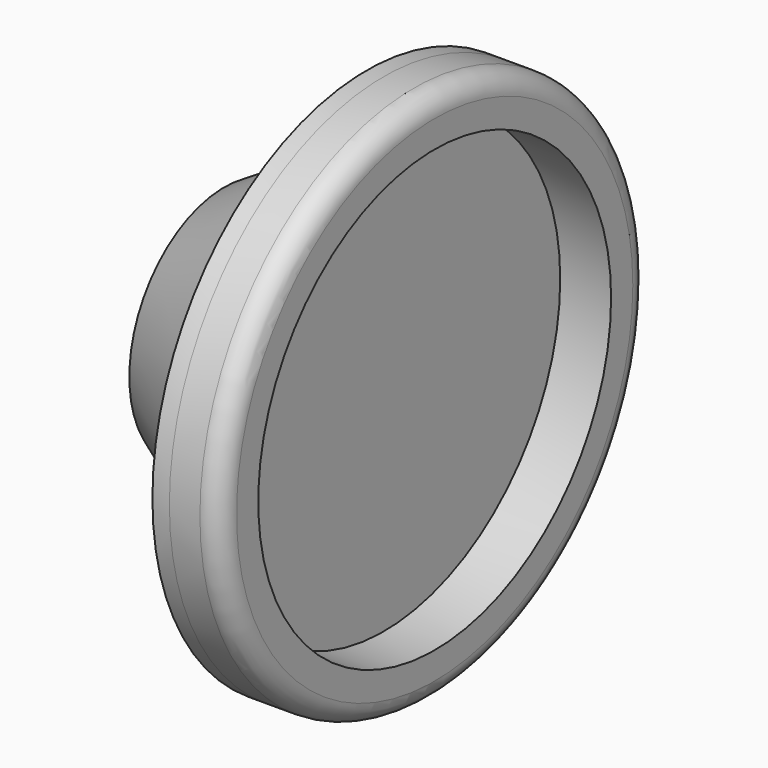
from build123d import *

# Parameters (mm, degrees)
F0_R      = 65
F1_DEPTH  = 5
F2_R      = 57.5
F3_DEPTH  = 5
F3_FACE_R = 57.5
F5_R      = 35
F7_R      = 79
F7_R_2    = 65
F8_DEPTH  = 5
F9_DEPTH  = 15
F10_R     = 6


with BuildPart() as f1:
    # F0 (on Right) → F1 (new body)
    with BuildSketch(Plane.YZ):
        Circle(F0_R)
    extrude(amount=F1_DEPTH)

    # F2 (on Right) → F3 (join)
    with BuildSketch(Plane.YZ):
        Circle(F2_R)
    extrude(amount=-F3_DEPTH)

    # F3_face (on face) → F6 section 0
    with BuildSketch(Plane(origin=(-5, 0, 0), x_dir=(0, 1, 0), z_dir=(-1, 0, 0))):
        Circle(F3_FACE_R)
    # F5 (on offset) → F6 section 1
    with BuildSketch(Plane(origin=(-42, 0, 0), x_dir=(0, -1, 0), z_dir=(-1, 0, 0))):
        Circle(F5_R)
    loft()


with BuildPart() as f8:
    # F7 (on face) → F8 (new body)
    with BuildSketch(Plane.YZ.offset(5)):
        Circle(F7_R)
        Circle(F7_R_2, mode=Mode.SUBTRACT)
    extrude(amount=-F8_DEPTH)

    # F9 (add): a face of the model
    f9_faces = [f8.faces().sort_by_distance(p)[0] for p in [
        (5, -76.7655425715, 0),
    ]]
    extrude(f9_faces, amount=F9_DEPTH)

    # F10
    f10_edges = [f8.edges().sort_by_distance(p)[0] for p in [
        (20, -79, 0),
    ]]
    fillet(f10_edges, radius=F10_R)


solid = Compound([f1.part, f8.part])
